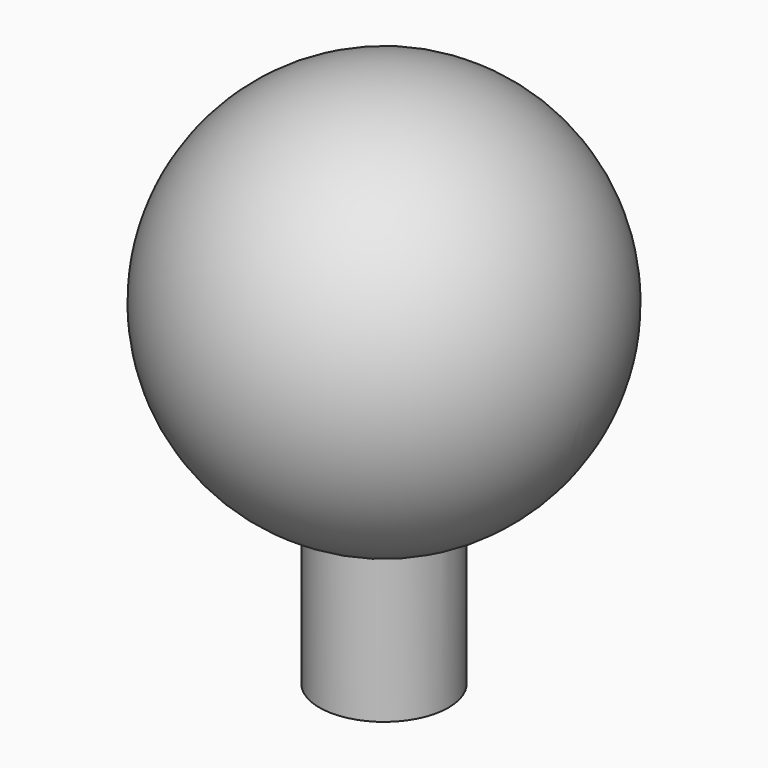
from build123d import *

# Parameters (mm, degrees)
F2_R     = 7.333158
F3_DEPTH = 38.1


with BuildPart() as f1:
    # F0 (on Front) → F1 (revolve)
    with BuildSketch(Plane.XZ):
        with BuildLine():
            ThreePointArc((-22.743872, 0), (0, -22.743872), (22.743872, 0))
            Line((22.743872, 0), (-22.743872, 0))
        make_face()
    revolve(axis=Axis((0, 0, 0), (1, 0, 0)))

    # F2 (on Top) → F3 (join)
    with BuildSketch(Plane.XY):
        Circle(F2_R)
    extrude(amount=-F3_DEPTH)


solid = f1.part
